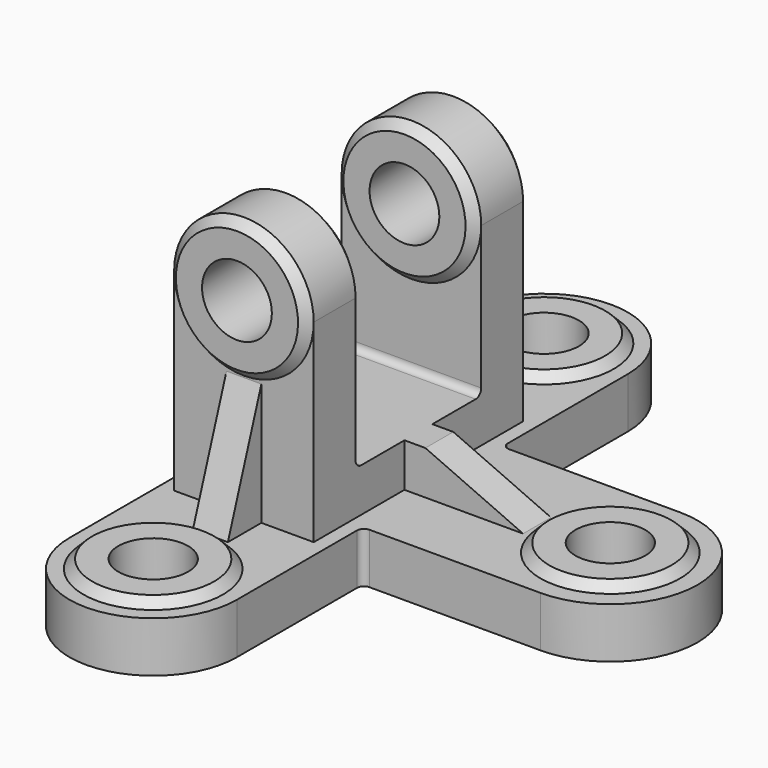
from build123d import *

# Parameters (mm, degrees)
PAD002_DEPTH    = 5
PAD001_DEPTH    = 20
PAD003_DEPTH    = 5
PAD_DEPTH       = 14.5
SKETCH009_R     = 10
POCKET_DEPTH    = 134.001
SKETCH010_R     = 10
POCKET001_DEPTH = 17.001
SKETCH011_R     = 10
POCKET002_DEPTH = 17.001
FILLET_R        = 2


with BuildPart() as revolution001:
    # Sketch005 → Revolution001 (revolve)
    with BuildSketch(Plane.YZ):
        Polygon((20, 70), (20, 87.5), (22.5, 90), (37.5, 90), (40, 87.5), (40, 70), align=None)
    revolve(axis=Axis((0, 20, 70), (0, -1, 0)))


with BuildPart() as pad002:
    # Sketch002 → Pad002 (new body, symmetric)
    with BuildSketch(Plane.YZ):
        Polygon((-37.5, 49.5), (-37.5, 14.5), (-49.5, 14.5), align=None)
        Polygon((37.5, 14.5), (49.5, 14.5), (37.5, 49.5), align=None)
    extrude(amount=PAD002_DEPTH, both=True)


with BuildPart() as pad001:
    # Sketch001 → Pad001 (new body, symmetric)
    with BuildSketch(Plane.YZ):
        Polygon((-37.5, 0), (-37.5, 70), (-22.5, 70), (-22.5, 27), (22.5, 27), (22.5, 70), (37.5, 70), (37.5, 0), align=None)
    extrude(amount=PAD001_DEPTH, both=True)


with BuildPart() as revolution004:
    # Sketch008 → Revolution004 (revolve)
    with BuildSketch(Plane.XZ):
        Polygon((55, 14.5), (75, 14.5), (75, 17), (57.5, 17), align=None)
    revolve(axis=Axis((75, 0, 14.5), (0, 0, -1)))


with BuildPart() as pad003:
    # Sketch003 → Pad003 (new body, symmetric)
    with BuildSketch(Plane.XZ):
        Polygon((20, 27), (20, 14.5), (54, 14.5), (26, 27), align=None)
    extrude(amount=PAD003_DEPTH, both=True)


with BuildPart() as revolution003:
    # Sketch007 → Revolution003 (revolve)
    with BuildSketch(Plane.YZ):
        Polygon((50, 14.5), (70, 14.5), (70, 17), (52.5, 17), align=None)
    revolve(axis=Axis((0, 70, 14.5), (0, 0, -1)))


with BuildPart() as revolution002:
    # Sketch006 → Revolution002 (revolve)
    with BuildSketch(Plane.YZ):
        Polygon((-90, 14.5), (-70, 14.5), (-70, 17), (-87.5, 17), align=None)
    revolve(axis=Axis((0, -70, 14.132615), (0, 0, -1)))


with BuildPart() as revolution:
    # Sketch004 → Revolution (revolve)
    with BuildSketch(Plane.YZ):
        Polygon((-40, 70), (-40, 87.5), (-37.5, 90), (-22.5, 90), (-20, 87.5), (-20, 70), align=None)
    revolve(axis=Axis((0, -20, 70), (0, 1, 0)))


with BuildPart() as fillet_body:
    # Sketch → Pad (new body)
    with BuildSketch(Plane.XY):
        with BuildLine():
            Line((-24, 70), (-24, -70.000001))
            ThreePointArc((-24, -70.000001), (1e-06, -94), (24, -70))
            Line((24, -70), (24, -25))
            Line((24, -25), (75, -25))
            ThreePointArc((75, -25), (100, 0), (74.999999, 25))
            Line((24, 25), (74.999999, 25))
            Line((24, 70), (24, 25))
            ThreePointArc((24, 70), (0, 94), (-24, 70))
        make_face()
    extrude(amount=PAD_DEPTH)

    # Fusion: union Revolution001, Pad002, Pad001, Revolution004, Pad003, Revolution003, Revolution002, Revolution
    add(revolution001.part)
    add(pad002.part)
    add(pad001.part)
    add(revolution004.part)
    add(pad003.part)
    add(revolution003.part)
    add(revolution002.part)
    add(revolution.part)

    # Sketch009 → Pocket (cut, through all)
    with BuildSketch(Plane.XZ.offset(40)):
        with Locations((0, 70)):
            Circle(SKETCH009_R)
    extrude(amount=-POCKET_DEPTH, mode=Mode.SUBTRACT)

    # Sketch010 → Pocket001 (cut, through all)
    with BuildSketch(Plane.XY.offset(17)):
        with Locations((0, 70)):
            Circle(SKETCH010_R)
        with Locations((0, -70)):
            Circle(SKETCH010_R)
    extrude(amount=-POCKET001_DEPTH, mode=Mode.SUBTRACT)

    # Sketch011 → Pocket002 (cut, through all)
    with BuildSketch(Plane.XY.offset(17)):
        with Locations((75, 0)):
            Circle(SKETCH011_R)
    extrude(amount=-POCKET002_DEPTH, mode=Mode.SUBTRACT)

    # Fillet
    fillet_edges = [fillet_body.edges().sort_by_distance(p)[0] for p in [
        (0, 22.5, 27),
        (24, -25, 7.25),
        (24, 25, 7.25),
        (0, -22.5, 27),
    ]]
    fillet(fillet_edges, radius=FILLET_R)


solid = fillet_body.part
